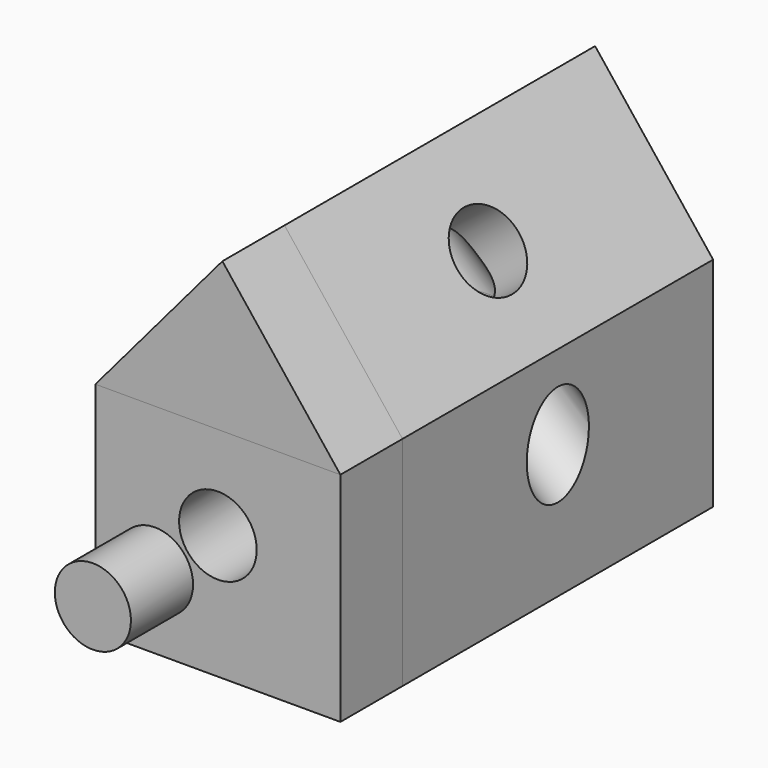
from build123d import *

# Parameters (mm, degrees)
F0_W        = 80.142647
F0_H        = 71.18237
F1_DEPTH    = 127
F3_DEPTH    = 25.4
F4_DEPTH    = 127
F1_FACE_W   = 80.142648
F1_FACE_H   = 71.18237
F5_DEPTH    = 25.4
F6_R        = 12.451084
F7_DEPTH    = 25.4
F9_D        = 25.4
F9_DEPTH    = 254
F9_2_D      = 25.4
F9_2_DEPTH  = 254
F11_D       = 25.4
F11_DEPTH   = 254
F11_2_D     = 25.4
F11_2_DEPTH = 254
F13_D       = 25.4
F13_DEPTH   = 254
F13_2_D     = 25.4
F13_2_DEPTH = 254


with BuildPart() as f1:
    # F0 (on Front) → F1 (new body)
    with BuildSketch(Plane.XZ):
        with Locations((-234.158322, -107.939616)):
            Rectangle(F0_W, F0_H)
    extrude(amount=F1_DEPTH)

    # F9
    with Locations(Plane.XZ.offset(152.4)):
        with Locations((-234.158322, -102.897115)):
            Hole(F9_D / 2, depth=F9_DEPTH)

    # F11
    with Locations(Plane(origin=(-154.796126, 0, -122.143098), x_dir=(0, 1, 0), z_dir=(0.785042, 0, 0.619443))):
        with Locations((-68.300158, 94.116807)):
            Hole(F11_D / 2, depth=F11_DEPTH)

    # F13
    with Locations(Plane(origin=(-123.686219, 0, 104.994907), x_dir=(0, -1, 0), z_dir=(-0.76236, 0, 0.647153))):
        with Locations((63.5, -201.693207)):
            Hole(F13_D / 2, depth=F13_DEPTH)


with BuildPart() as f3:
    # F2 (on face) → F3 (new body)
    with BuildSketch(Plane.XZ.offset(127)):
        Polygon((-232.694775, -23.419475), (-274.229646, -72.348431), (-194.086999, -72.348431), align=None)
    extrude(amount=F3_DEPTH)


with BuildPart() as f4:
    # F3_face (on face) → F4 (new body)
    with BuildSketch(Plane(origin=(-233.670473, -127, -56.038779), x_dir=(1, 0, 0), z_dir=(0, 1, 0))):
        Polygon((-40.559173, 16.309652), (0.975698, -32.619304), (39.583474, 16.309652), align=None)
    extrude(amount=F4_DEPTH)

    # F11#2
    with Locations(Plane(origin=(-154.796126, 0, -122.143098), x_dir=(0, 1, 0), z_dir=(0.785042, 0, 0.619443))):
        with Locations((-68.300158, 94.116807)):
            Hole(F11_2_D / 2, depth=F11_2_DEPTH)

    # F13#2
    with Locations(Plane(origin=(-123.686219, 0, 104.994907), x_dir=(0, -1, 0), z_dir=(-0.76236, 0, 0.647153))):
        with Locations((63.5, -201.693207)):
            Hole(F13_2_D / 2, depth=F13_2_DEPTH)


with BuildPart() as f5:
    # F1_face (on face) → F5 (new body)
    with BuildSketch(Plane(origin=(-234.158322, -127, -107.939616), x_dir=(1, 0, 0), z_dir=(0, -1, 0))):
        Rectangle(F1_FACE_W, F1_FACE_H)
    extrude(amount=F5_DEPTH)

    # F6 (on face) → F7 (join)
    with BuildSketch(Plane.XZ.offset(152.4)):
        with Locations((-254.740417, -119.67507)):
            Circle(F6_R)
    extrude(amount=F7_DEPTH)

    # F9#2
    with Locations(Plane.XZ.offset(152.4)):
        with Locations((-234.158322, -102.897115)):
            Hole(F9_2_D / 2, depth=F9_2_DEPTH)


solid = Compound([f1.part, f3.part, f4.part, f5.part])
